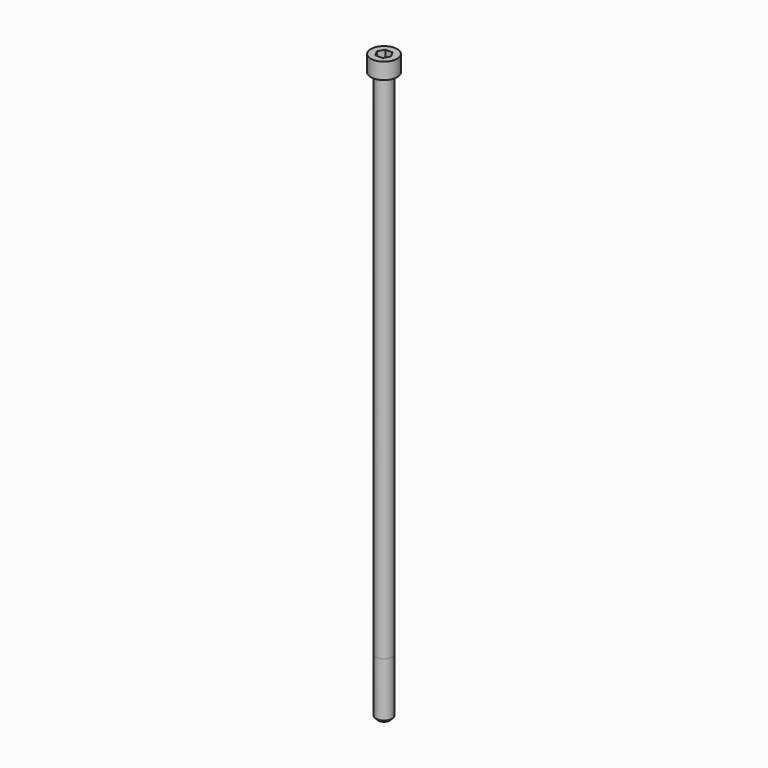
from build123d import *

# Parameters (mm, degrees)
POCKET_DEPTH = 6.06


with BuildPart() as part:
    # Sketch → Revolve (revolve)
    with BuildSketch(Plane.YZ):
        with BuildLine():
            Line((3.999, 0), (6.5, 0))
            Line((6.5, 0), (6.5, 7.97229))
            ThreePointArc((6.5, 7.97229), (6.491884, 7.991884), (6.47229, 8))
            Line((6.47229, 8), (0, 8))
            Line((0, -280), (0, 8))
            Line((2.75, -280), (0, -280))
            Line((4, -278.75), (2.75, -280))
            Line((4, -252), (4, -278.75))
            Line((3.999, 0), (4, -252))
        make_face()
    revolve(axis=Axis((0, 0, 0), (0, 0, 1)))

    # Sketch001 → Pocket (cut)
    with BuildSketch(Plane.XY.offset(8)):
        Polygon((3.498743, 0), (1.749371, 3.03), (-1.749371, 3.03), (-3.498743, 0), (-1.749371, -3.03), (1.749371, -3.03), align=None)
    extrude(amount=-POCKET_DEPTH, mode=Mode.SUBTRACT)


solid = part.part
